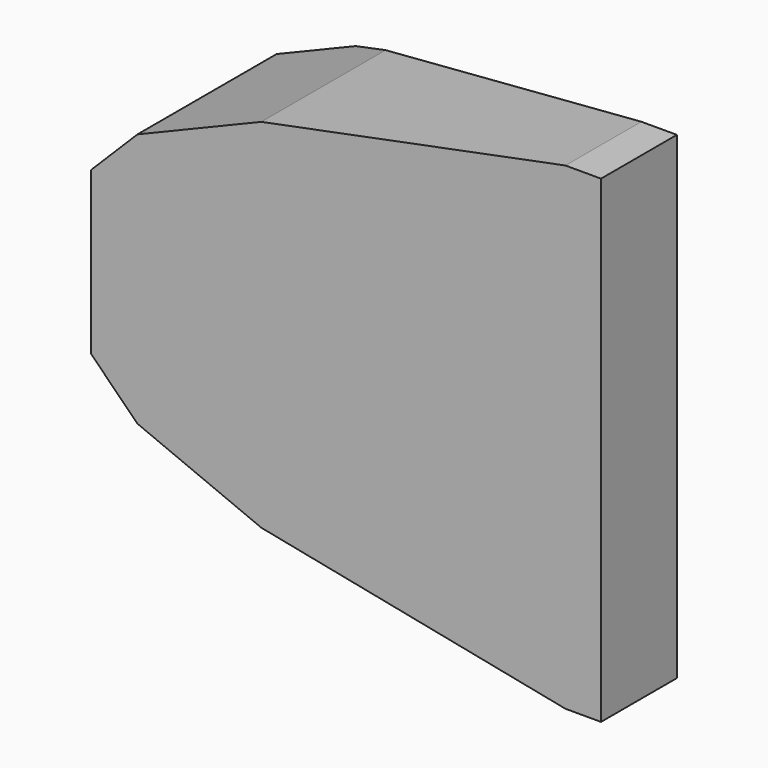
from build123d import *

# Parameters (mm, degrees)
BOX020_W          = 71.8
BOX020_H          = 12
BOX020_DEPTH      = 9.5
CYLINDER024_R     = 7.9
CYLINDER024_DEPTH = 1.7
BOX002_W          = 32.25
BOX002_H          = 11
BOX002_DEPTH      = 30.25
CHAMFER_SIZE2     = 15
CHAMFER_SIZE      = 5
CHAMFER001_SIZE   = 5
CHAMFER002_SIZE   = 5
CHAMFER003_SIZE   = 10
CHAMFER004_SIZE   = 10
CHAMFER005_SIZE   = 10
CHAMFER006_SIZE   = 5
CHAMFER007_SIZE   = 1
CHAMFER008_SIZE   = 10


with BuildPart() as obj1:
    # Box020 → Box020 (new body)
    with BuildSketch(Plane(origin=(-40, 36.6, 10.375), x_dir=(1, 0, 0), z_dir=(0, 0, 1))):
        with Locations((35.9, 6)):
            Rectangle(BOX020_W, BOX020_H)
    extrude(amount=BOX020_DEPTH)


with BuildPart() as obj2:
    # Cylinder024 → Cylinder024 (new body)
    with BuildSketch(Plane(origin=(30.1, 36.6, 15.125), x_dir=(0, 0, -1), z_dir=(1, 0, 0))):
        Circle(CYLINDER024_R)
    extrude(amount=CYLINDER024_DEPTH)

    # Cut001: cut obj1
    add(obj1.part, mode=Mode.SUBTRACT)


with BuildPart() as plunger_support:
    # Cone002 → Cone002 (revolve)
    with BuildSketch(Plane(origin=(33.5, 36.6, 15.125), x_dir=(0, 0, -1), z_dir=(0, -1, 0))):
        Polygon((0, 0), (7.9, 0), (0, 10), align=None)
    revolve(axis=Axis((33.5, 36.6, 15.125), (1, 0, 0)))


with BuildPart() as fusion009:
    # Box002 → Box002 (new body)
    with BuildSketch(Plane(origin=(26.25, 26.6, 0), x_dir=(1, 0, 0), z_dir=(0, 0, 1))):
        with Locations((16.125, 5.5)):
            Rectangle(BOX002_W, BOX002_H)
    extrude(amount=BOX002_DEPTH)

    # Chamfer
    chamfer_edges = [fusion009.edges().sort_by_distance(p)[0] for p in [
        (58.5, 37.6, 15.125),
    ]]
    chamfer_side = fusion009.faces().sort_by_distance((58.5, 32.1, 15.125))[0]
    chamfer(chamfer_edges, length=CHAMFER_SIZE, length2=CHAMFER_SIZE2, reference=chamfer_side)

    # Chamfer001
    chamfer001_edges = [fusion009.edges().sort_by_distance(p)[0] for p in [
        (34.875, 37.6, 30.25),
    ]]
    chamfer(chamfer001_edges, length=CHAMFER001_SIZE)

    # Chamfer002
    chamfer002_edges = [fusion009.edges().sort_by_distance(p)[0] for p in [
        (34.875, 37.6, 0),
    ]]
    chamfer(chamfer002_edges, length=CHAMFER002_SIZE)

    # Chamfer003
    chamfer003_edges = [fusion009.edges().sort_by_distance(p)[0] for p in [
        (26.25, 29.6, 0),
        (26.25, 29.6, 30.25),
    ]]
    chamfer(chamfer003_edges, length=CHAMFER003_SIZE)

    # Chamfer004
    chamfer004_edges = [fusion009.edges().sort_by_distance(p)[0] for p in [
        (36.25, 29.6, 0),
        (36.25, 29.6, 30.25),
    ]]
    chamfer(chamfer004_edges, length=CHAMFER004_SIZE)

    # Chamfer005
    chamfer005_edges = [fusion009.edges().sort_by_distance(p)[0] for p in [
        (46.25, 29.6, 30.25),
        (46.25, 29.6, 0),
    ]]
    chamfer(chamfer005_edges, length=CHAMFER005_SIZE)

    # Chamfer006
    chamfer006_edges = [fusion009.edges().sort_by_distance(p)[0] for p in [
        (43.5, 37.6, 15.125),
    ]]
    chamfer(chamfer006_edges, length=CHAMFER006_SIZE)

    # Chamfer007
    chamfer007_edges = [fusion009.edges().sort_by_distance(p)[0] for p in [
        (38.5, 37.6, 15.125),
    ]]
    chamfer(chamfer007_edges, length=CHAMFER007_SIZE)

    # Chamfer008
    chamfer008_edges = [fusion009.edges().sort_by_distance(p)[0] for p in [
        (48.243416, 36.018861, 15.125),
    ]]
    chamfer(chamfer008_edges, length=CHAMFER008_SIZE)

    # Fusion008: union plunger_support
    add(plunger_support.part)

    # Fusion009: union obj2
    add(obj2.part)


solid = fusion009.part
